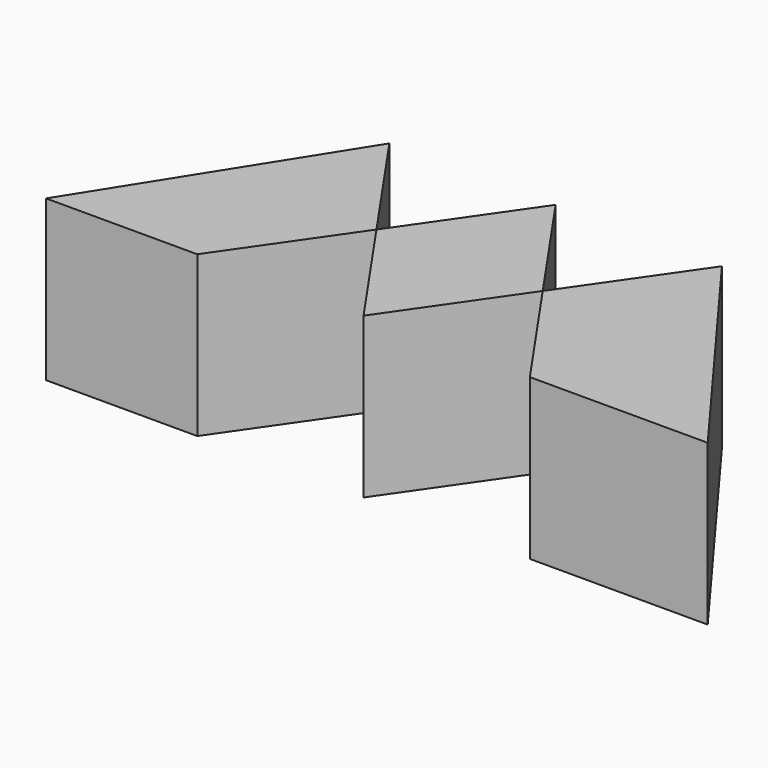
from build123d import *

# Parameters (mm, degrees)
F1_DEPTH = 25


with BuildPart() as f1:
    # F0 (on Top) → F1 (new body)
    with BuildSketch(Plane.XY):
        Polygon((25.972221, 37.500001), (12.986111, 18.750001), (25.972221, 0), (53.750005, 0), align=None)
        Polygon((0, 37.500001), (-12.986111, 18.750001), (0, 0), (12.986111, 18.750001), align=None)
        Polygon((-25.972221, 37.500001), (-49.583334, 0), (-25.972221, 0), (-12.986111, 18.750001), align=None)
    extrude(amount=F1_DEPTH)


solid = f1.part
